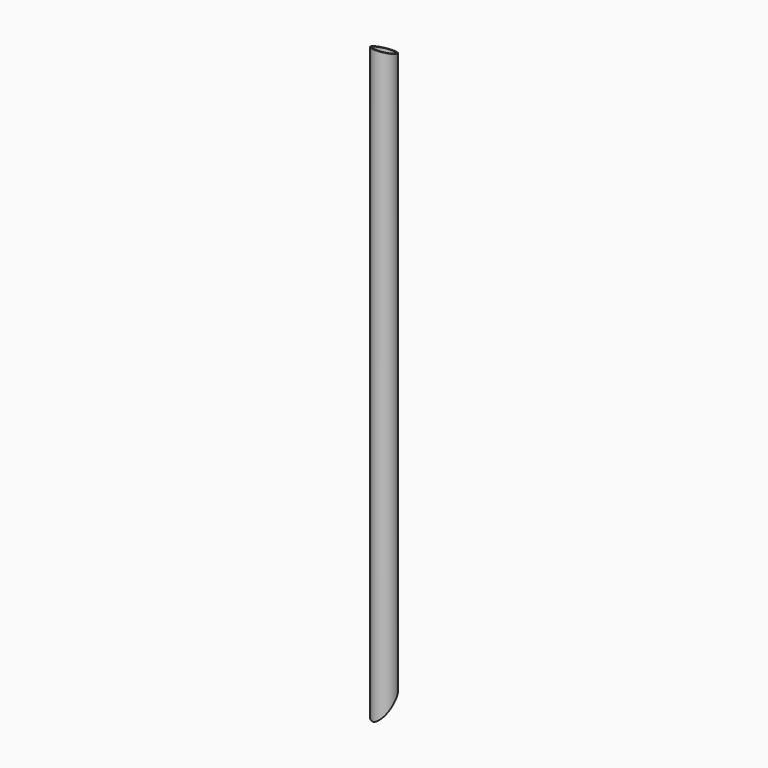
from build123d import *

# Parameters (mm, degrees)
F0_R          = 24.13
F0_R_2        = 20.447
F1_DEPTH      = 1308.1
F3_DEPTH      = 24.131
F3_DEPTH_BACK = 24.131
F5_DEPTH      = 24.131
F5_DEPTH_BACK = 24.131
F8_W          = 230.4114792496
F8_H          = 177.8236068785
F9_DEPTH      = 25.4
F9_DEPTH_BACK = 20.32


with BuildPart() as f1:
    # F0 (on Top) → F1 (new body)
    with BuildSketch(Plane.XY):
        Circle(F0_R)
        Circle(F0_R_2, mode=Mode.SUBTRACT)
    extrude(amount=F1_DEPTH)

    # F2 (on Right) → F3 (cut, two sides)
    with BuildSketch(Plane.YZ) as f3_sk:
        Polygon((24.13, 1288.3563127231), (24.13, 1308.1), (-24.13, 1308.1), align=None)
    extrude(amount=-F3_DEPTH, mode=Mode.SUBTRACT)
    extrude(f3_sk.sketch, amount=F3_DEPTH_BACK, mode=Mode.SUBTRACT)

    # F4 (on Front) → F5 (cut, two sides)
    with BuildSketch(Plane.XZ) as f5_sk:
        Polygon((-28.575, 0), (28.575, 0), (28.575, 26.6494826636), align=None)
    extrude(amount=F5_DEPTH, mode=Mode.SUBTRACT)
    extrude(f5_sk.sketch, amount=-F5_DEPTH_BACK, mode=Mode.SUBTRACT)

    # F8 (on line) → F9 (cut, two sides)
    with BuildSketch(Plane(origin=(-2.5518360133, -6.0381584146, 5.4724299905), x_dir=(-0.9543044076, 0.2214273865, -0.2006813646), z_dir=(0.2988362387, 0.7071067812, -0.6408563821))) as f9_sk:
        with Locations((9.1961668804, 17.1195510775)):
            Rectangle(F8_W, F8_H)
    extrude(amount=F9_DEPTH, mode=Mode.SUBTRACT)
    extrude(f9_sk.sketch, amount=-F9_DEPTH_BACK, mode=Mode.SUBTRACT)


solid = f1.part
